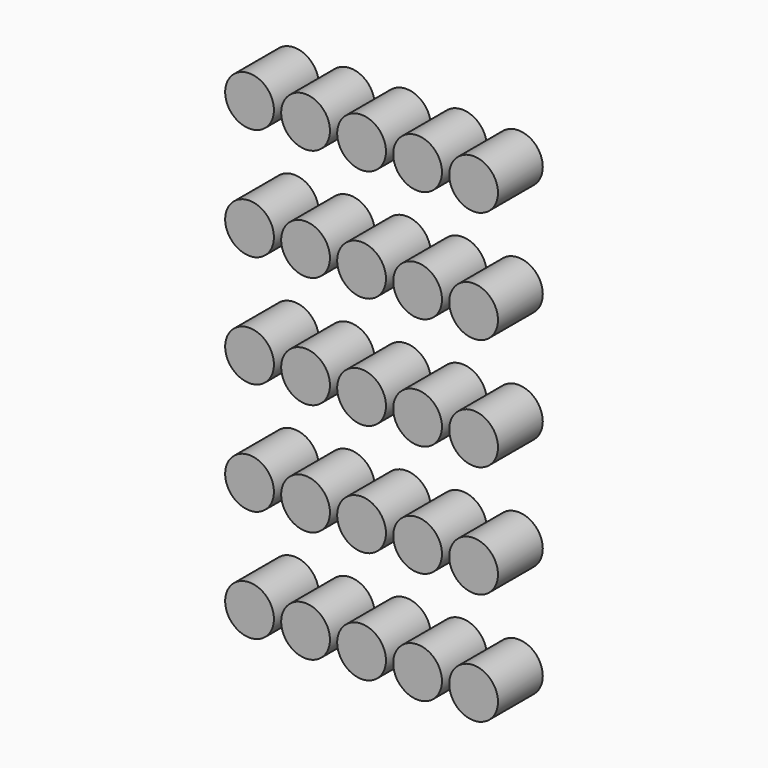
from build123d import *

# Parameters (mm, degrees)
F0_R     = 11.049726
F1_DEPTH = 25.4


with BuildPart() as f1:
    # F0 (on Front) → F1 (new body)
    with BuildSketch(Plane.XZ):
        with Locations((-36.632486, 35.004374)):
            Circle(F0_R)
        with Locations((-36.632486, -15.795626)):
            Circle(F0_R)
        with Locations((-36.632486, -66.595626)):
            Circle(F0_R)
        with Locations((-36.632486, -117.395626)):
            Circle(F0_R)
        with Locations((-36.632486, -168.195626)):
            Circle(F0_R)
        with Locations((-11.232486, 35.004374)):
            Circle(F0_R)
        with Locations((-11.232486, -15.795626)):
            Circle(F0_R)
        with Locations((-11.232486, -66.595626)):
            Circle(F0_R)
        with Locations((-11.232486, -117.395626)):
            Circle(F0_R)
        with Locations((-11.232486, -168.195626)):
            Circle(F0_R)
        with Locations((14.167514, 35.004374)):
            Circle(F0_R)
        with Locations((14.167514, -15.795626)):
            Circle(F0_R)
        with Locations((14.167514, -66.595626)):
            Circle(F0_R)
        with Locations((14.167514, -117.395626)):
            Circle(F0_R)
        with Locations((14.167514, -168.195626)):
            Circle(F0_R)
        with Locations((39.567514, 35.004374)):
            Circle(F0_R)
        with Locations((39.567514, -15.795626)):
            Circle(F0_R)
        with Locations((39.567514, -66.595626)):
            Circle(F0_R)
        with Locations((39.567514, -117.395626)):
            Circle(F0_R)
        with Locations((39.567514, -168.195626)):
            Circle(F0_R)
        with Locations((64.967514, 35.004374)):
            Circle(F0_R)
        with Locations((64.967514, -15.795626)):
            Circle(F0_R)
        with Locations((64.967514, -66.595626)):
            Circle(F0_R)
        with Locations((64.967514, -117.395626)):
            Circle(F0_R)
        with Locations((64.967514, -168.195626)):
            Circle(F0_R)
    extrude(amount=F1_DEPTH)


solid = f1.part
